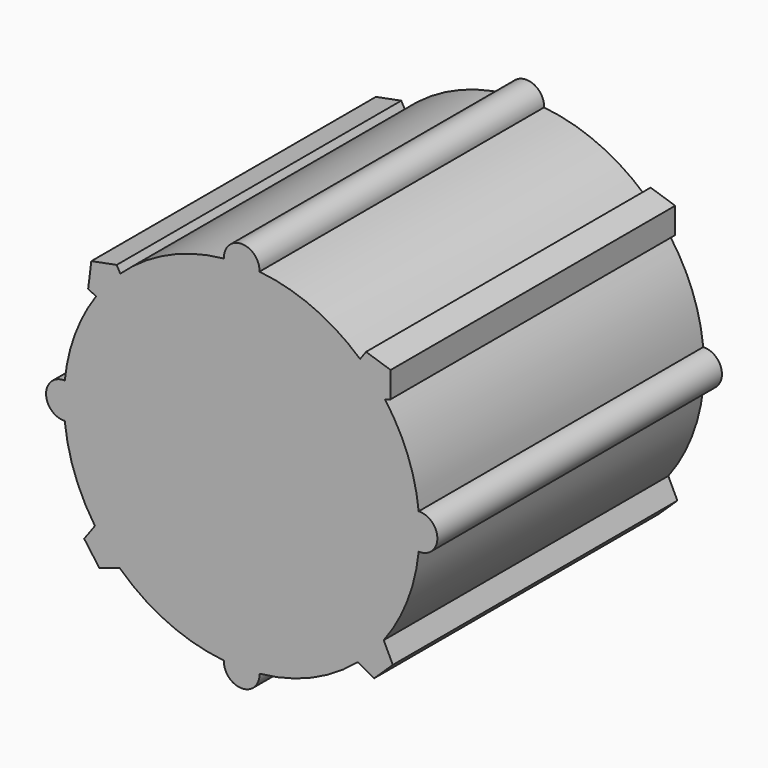
from build123d import *

# Parameters (mm, degrees)
F1_DEPTH = 63.5
F2_D     = 114.3
F2_DEPTH = 63.501
F3_D     = 114.3
F3_DEPTH = 25.4
F3_TIP   = 34.3391843774


with BuildPart() as f1:
    # F0 (on Front) → F1 (new body, symmetric)
    with BuildSketch(Plane.XZ):
        with BuildLine():
            ThreePointArc((63.1825, -6.3420575329), (63.4205753285, -3.175), (63.5, 0))
            ThreePointArc((63.5, 0), (63.4205753285, 3.175), (63.1825, 6.3420575329))
            ThreePointArc((63.1825, 6.3420575329), (57.15, 0), (63.1825, -6.3420575329))
        make_face()
        with BuildLine():
            ThreePointArc((63.1825, 6.3420575329), (63.4205753285, 3.175), (63.5, 0))
            ThreePointArc((63.5, 0), (63.4205753285, -3.175), (63.1825, -6.3420575329))
            ThreePointArc((63.1825, -6.3420575329), (67.8764354788, -4.6010121169), (69.85, 0))
            ThreePointArc((69.85, 0), (67.8764354788, 4.6010121169), (63.1825, 6.3420575329))
        make_face()
        with BuildLine():
            ThreePointArc((63.1825, -6.3420575329), (57.15, 0), (63.1825, 6.3420575329))
            ThreePointArc((63.1825, 6.3420575329), (59.2684226035, 22.7926321889), (51.1514073356, 37.6268989898))
            Line((51.1514073356, 37.6268989898), (44.3948691925, 35.4315666688))
            Line((44.3948691925, 35.4315666688), (38.9713217069, 42.8964393729))
            Line((38.9713217069, 42.8964393729), (42.2479521953, 47.4063343373))
            ThreePointArc((42.2479521953, 47.4063343373), (25.5434749418, 58.1358829631), (6.3420575329, 63.1825))
            ThreePointArc((6.3420575329, 63.1825), (0, 57.15), (-6.3420575329, 63.1825))
            ThreePointArc((-6.3420575329, 63.1825), (-26.2258003585, 57.831283883), (-43.351850487, 46.3989984736))
            Line((-43.351850487, 46.3989984736), (-40.1734631197, 40.6496002242))
            Line((-40.1734631197, 40.6496002242), (-46.4740063985, 33.9085063805))
            Line((-46.4740063985, 33.9085063805), (-51.9747429826, 36.4811744862))
            ThreePointArc((-51.9747429826, 36.4811744862), (-59.5179741382, 22.132798162), (-63.1825, 6.3420575329))
            ThreePointArc((-63.1825, 6.3420575329), (-58.8989878831, 4.3764354788), (-57.15, 0))
            ThreePointArc((-57.15, 0), (-58.8989878831, -4.3764354788), (-63.1825, -6.3420575329))
            ThreePointArc((-63.1825, -6.3420575329), (-59.6526265915, -21.7672722391), (-52.4184059941, -35.8407688679))
            Line((-52.4184059941, -35.8407688679), (-50.8226124015, -33.6443474184))
            Line((-50.8226124015, -33.6443474184), (-42.0471282301, -36.4956750697))
            Line((-42.0471282301, -36.4956750697), (-42.0471282301, -45.7227651753))
            Line((-42.0471282301, -45.7227651753), (-43.5515690674, -46.2115876352))
            ThreePointArc((-43.5515690674, -46.2115876352), (-26.3504546537, -57.7745925087), (-6.3420575329, -63.1825))
            ThreePointArc((-6.3420575329, -63.1825), (0, -57.15), (6.3420575329, -63.1825))
            ThreePointArc((6.3420575329, -63.1825), (25.0210307502, -58.3626423339), (41.3908210079, -48.1565149932))
            Line((41.3908210079, -48.1565149932), (39.1545134974, -46.9573614133))
            Line((39.1545134974, -46.9573614133), (40.7886670188, -37.876131646))
            Line((40.7886670188, -37.876131646), (49.9304109745, -36.6240496733))
            Line((49.9304109745, -36.6240496733), (50.7049691251, -38.2263797138))
            ThreePointArc((50.7049691251, -38.2263797138), (59.1332512734, -23.1410586153), (63.1825, -6.3420575329))
        make_face()
        with BuildLine():
            Line((44.3948691925, 35.4315666688), (51.1514073356, 37.6268989898))
            ThreePointArc((51.1514073356, 37.6268989898), (46.9549723579, 42.7490417539), (42.2479521953, 47.4063343373))
            Line((42.2479521953, 47.4063343373), (38.9713217069, 42.8964393729))
            Line((38.9713217069, 42.8964393729), (44.3948691925, 35.4315666688))
        make_face()
        with BuildLine():
            ThreePointArc((42.2479521953, 47.4063343373), (46.9549723579, 42.7490417539), (51.1514073356, 37.6268989898))
            Line((51.1514073356, 37.6268989898), (53.170353364, 38.28289432))
            Line((53.170353364, 38.28289432), (53.170353364, 47.5099844257))
            Line((53.170353364, 47.5099844257), (44.3948691925, 50.361312077))
            Line((44.3948691925, 50.361312077), (42.2479521953, 47.4063343373))
        make_face()
        with BuildLine():
            Line((53.9461659342, -44.9314502248), (50.7049691251, -38.2263797138))
            ThreePointArc((50.7049691251, -38.2263797138), (46.3147982477, -43.4417939694), (41.3908210079, -48.1565149932))
            Line((41.3908210079, -48.1565149932), (47.286295034, -51.3177880964))
            Line((47.286295034, -51.3177880964), (53.9461659342, -44.9314502248))
        make_face()
        with BuildLine():
            ThreePointArc((41.3908210079, -48.1565149932), (46.3147982477, -43.4417939694), (50.7049691251, -38.2263797138))
            Line((50.7049691251, -38.2263797138), (49.9304109745, -36.6240496733))
            Line((49.9304109745, -36.6240496733), (40.7886670188, -37.876131646))
            Line((40.7886670188, -37.876131646), (39.1545134974, -46.9573614133))
            Line((39.1545134974, -46.9573614133), (41.3908210079, -48.1565149932))
        make_face()
        with BuildLine():
            ThreePointArc((-6.3420575329, 63.1825), (0, 57.15), (6.3420575329, 63.1825))
            ThreePointArc((6.3420575329, 63.1825), (0, 63.5), (-6.3420575329, 63.1825))
        make_face()
        with BuildLine():
            ThreePointArc((-6.3420575329, 63.1825), (0, 63.5), (6.3420575329, 63.1825))
            ThreePointArc((6.3420575329, 63.1825), (6.3480140727, 63.3412003363), (6.35, 63.5))
            ThreePointArc((6.35, 63.5), (-0.1587996637, 69.8480140727), (-6.3420575329, 63.1825))
        make_face()
        with BuildLine():
            ThreePointArc((6.35, -63.5), (6.3480140727, -63.3412003363), (6.3420575329, -63.1825))
            ThreePointArc((6.3420575329, -63.1825), (0, -63.5), (-6.3420575329, -63.1825))
            ThreePointArc((-6.3420575329, -63.1825), (-0.1587996637, -69.8480140727), (6.35, -63.5))
        make_face()
        with BuildLine():
            ThreePointArc((-6.3420575329, -63.1825), (0, -63.5), (6.3420575329, -63.1825))
            ThreePointArc((6.3420575329, -63.1825), (0, -57.15), (-6.3420575329, -63.1825))
        make_face()
        with BuildLine():
            Line((-40.1734631197, 40.6496002242), (-43.351850487, 46.3989984736))
            ThreePointArc((-43.351850487, 46.3989984736), (-47.9205661881, 41.6637652668), (-51.9747429826, 36.4811744862))
            Line((-51.9747429826, 36.4811744862), (-46.4740063985, 33.9085063805))
            Line((-46.4740063985, 33.9085063805), (-40.1734631197, 40.6496002242))
        make_face()
        with BuildLine():
            ThreePointArc((-51.9747429826, 36.4811744862), (-47.9205661881, 41.6637652668), (-43.351850487, 46.3989984736))
            Line((-43.351850487, 46.3989984736), (-44.6376493999, 48.7248855241))
            Line((-44.6376493999, 48.7248855241), (-53.6972115319, 46.9745924645))
            Line((-53.6972115319, 46.9745924645), (-54.8321425725, 37.8175665635))
            Line((-54.8321425725, 37.8175665635), (-51.9747429826, 36.4811744862))
        make_face()
        with BuildLine():
            Line((-50.8226124015, -48.5740928266), (-43.5515690674, -46.2115876352))
            ThreePointArc((-43.5515690674, -46.2115876352), (-48.2643501852, -41.2650275802), (-52.4184059941, -35.8407688679))
            Line((-52.4184059941, -35.8407688679), (-56.2461598872, -41.1092201225))
            Line((-56.2461598872, -41.1092201225), (-50.8226124015, -48.5740928266))
        make_face()
        with BuildLine():
            ThreePointArc((-52.4184059941, -35.8407688679), (-48.2643501852, -41.2650275802), (-43.5515690674, -46.2115876352))
            Line((-43.5515690674, -46.2115876352), (-42.0471282301, -45.7227651753))
            Line((-42.0471282301, -45.7227651753), (-42.0471282301, -36.4956750697))
            Line((-42.0471282301, -36.4956750697), (-50.8226124015, -33.6443474184))
            Line((-50.8226124015, -33.6443474184), (-52.4184059941, -35.8407688679))
        make_face()
        with BuildLine():
            ThreePointArc((-57.15, 0), (-58.8989878831, 4.3764354788), (-63.1825, 6.3420575329))
            ThreePointArc((-63.1825, 6.3420575329), (-63.5, 0), (-63.1825, -6.3420575329))
            ThreePointArc((-63.1825, -6.3420575329), (-58.8989878831, -4.3764354788), (-57.15, 0))
        make_face()
        with BuildLine():
            ThreePointArc((-63.1825, -6.3420575329), (-63.5, 0), (-63.1825, 6.3420575329))
            ThreePointArc((-63.1825, 6.3420575329), (-69.85, 0), (-63.1825, -6.3420575329))
        make_face()
    extrude(amount=F1_DEPTH, both=True)

    # F2 (through all, one way)
    with BuildSketch(Plane.XZ):
        with Locations((0, 0)):
            Circle(F2_D / 2)
    extrude(amount=-F2_DEPTH, mode=Mode.SUBTRACT)

    # F3
    with Locations(Plane(origin=(0, 0, 0), x_dir=(1, 0, 0), z_dir=(0, 1, 0))):
        with Locations((0, 0)):
            Hole(F3_D / 2, depth=F3_DEPTH)
            with Locations((0, 0, -(F3_DEPTH + F3_TIP / 2))):  # 118° drill point
                Cone(0, F3_D / 2, F3_TIP, mode=Mode.SUBTRACT)


solid = f1.part
